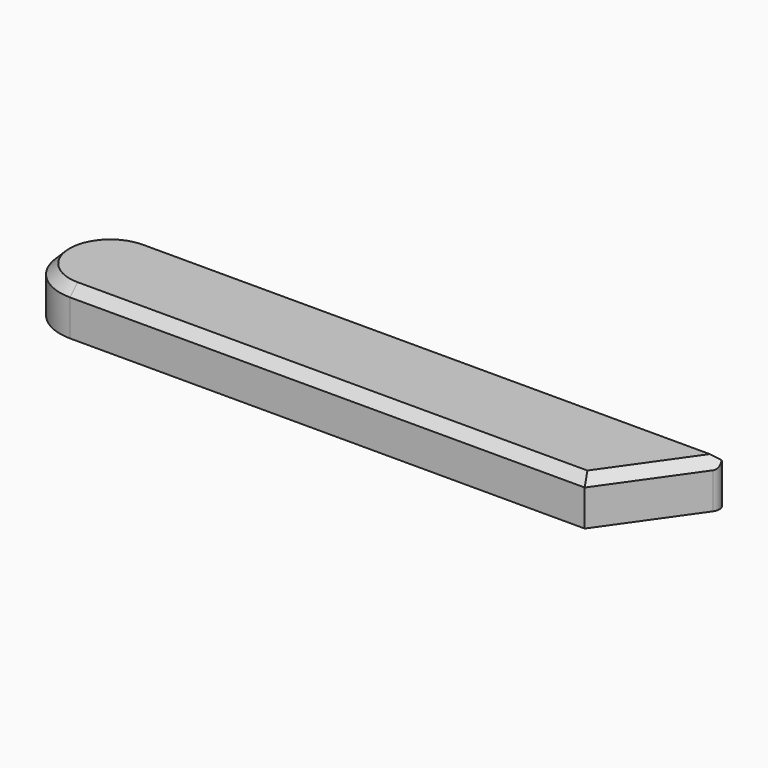
from build123d import *

# Parameters (mm, degrees)
F0_W     = 137.48005
F0_H     = 26.821588
F1_DEPTH = 12.192
F2_SIZE  = 2.54
F3_R     = 2.54


with BuildPart() as f1:
    # F0 (on Top) → F1 (new body)
    with BuildSketch(Plane.XY):
        with BuildLine():
            Line((-68.740025, -13.410794), (-68.740025, 13.410794))
            ThreePointArc((-68.740025, 13.410794), (-82.150819, 0), (-68.740025, -13.410794))
        make_face()
        Rectangle(F0_W, F0_H)
        Polygon((87.603755, 13.410794), (68.740025, 13.410794), (68.740025, -13.410794), align=None)
    extrude(amount=F1_DEPTH)

    # F2
    f2_edges = [f1.edges().sort_by_distance(p)[0] for p in [
        (9.431865, 13.410794, 12.192),
        (-82.150819, 0, 12.192),
        (0, -13.410794, 12.192),
        (78.17189, 0, 12.192),
    ]]
    chamfer(f2_edges, length=F2_SIZE)

    # F3
    f3_edges = [f1.edges().sort_by_distance(p)[0] for p in [
        (87.603755, 13.410794, 4.826),
    ]]
    fillet(f3_edges, radius=F3_R)


solid = f1.part
